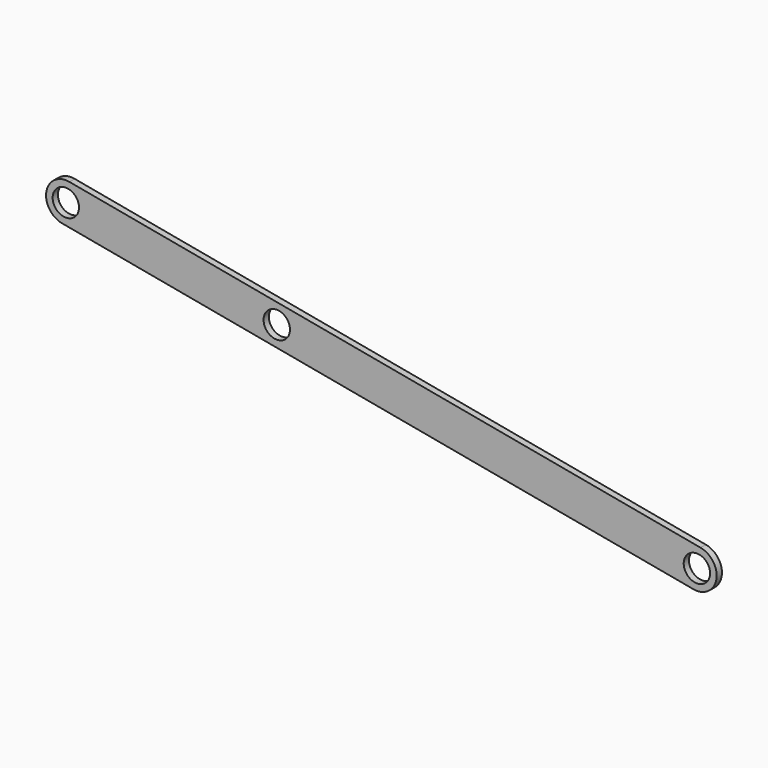
from build123d import *

# Parameters (mm, degrees)
F0_R     = 2
F1_DEPTH = 0.5


with BuildPart() as f1:
    # F0 (on Front) → F1 (new body, symmetric)
    with BuildSketch(Plane.XZ):
        with BuildLine():
            Line((38.265012, 12.814054), (-57.477403, 30.527687))
            ThreePointArc((-57.477403, 30.527687), (-60.973118, 28.123528), (-58.568959, 24.627814))
            Line((-58.568959, 24.627814), (37.173456, 6.914181))
            ThreePointArc((37.173456, 6.914181), (40.669171, 9.31834), (38.265012, 12.814054))
        make_face()
        with Locations((37.719234, 9.864118)):
            Circle(F0_R, mode=Mode.SUBTRACT)
        with Locations((-26.020462, 21.682512)):
            Circle(F0_R, mode=Mode.SUBTRACT)
        with Locations((-58.023181, 27.57775)):
            Circle(F0_R, mode=Mode.SUBTRACT)
    extrude(amount=F1_DEPTH, both=True)


solid = f1.part
